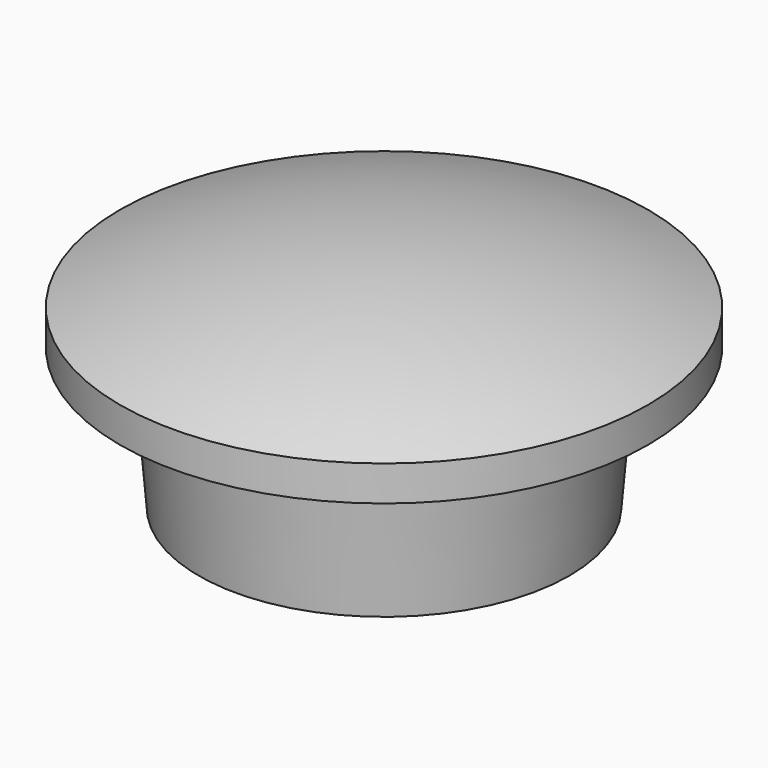
from build123d import *

# Parameters (mm, degrees)
F0_R     = 15
F1_DEPTH = 2
F2_R     = 11.125
F2_R_2   = 10
F3_DEPTH = 8
F4_SIZE2 = 6.8580313817
F4_SIZE  = 0.6


with BuildPart() as f1:
    # F0 (on Top) → F1 (new body)
    with BuildSketch(Plane.XY):
        Circle(F0_R)
    extrude(amount=F1_DEPTH)

    # F2 (on face) → F3 (join)
    with BuildSketch(Plane(origin=(0, 0, 0), x_dir=(1, 0, 0), z_dir=(0, 0, -1))):
        Circle(F2_R)
        Circle(F2_R_2, mode=Mode.SUBTRACT)
    extrude(amount=F3_DEPTH)

    # F4
    f4_edges = [f1.edges().sort_by_distance(p)[0] for p in [
        (-11.125, 0, -8),
    ]]
    f4_side = f1.faces().sort_by_distance((-10.810337, 0, -8))[0]
    chamfer(f4_edges, length=F4_SIZE, length2=F4_SIZE2, reference=f4_side)

    # F5 (on Front) → F6 (revolve)
    with BuildSketch(Plane.XZ):
        with BuildLine():
            Line((0, 4.9190075645), (0, 2))
            Line((0, 2), (15, 2))
            ThreePointArc((15, 2), (7.6406904983, 4.1824746645), (0, 4.9190075645))
        make_face()
    revolve(axis=Axis((0, 0, 3.4595037823), (0, 0, 1)))


solid = f1.part
